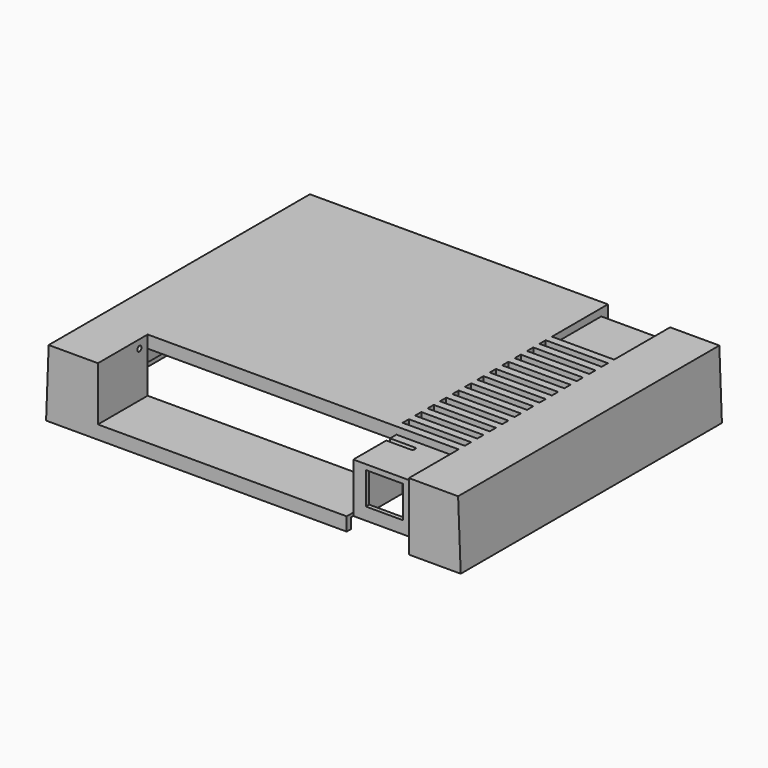
from build123d import *

# Parameters (mm, degrees)
F0_W      = 80
F0_H      = 63
F0_W_2    = 78
F0_H_2    = 61
F1_DEPTH  = 13
F3_DEPTH  = 63
F4_T      = -2.4
F5_DEPTH  = 2
F6_DEPTH  = 1.6
F7_W      = 7.2
F7_H      = 6.2
F8_DEPTH  = 2
F9_W      = 12
F9_H      = 12
F9_H_2    = 10.4
F10_DEPTH = 1.4
F9_H_3    = 1.5
F11_DEPTH = 3
F12_W     = 12
F12_H     = 11.6
F13_DEPTH = 1.6
F14_W     = 7.2
F14_H     = 4.8
F15_DEPTH = 3
F2_W      = 48
F2_H      = 10.4
F16_DEPTH = 12
F17_W     = 1.2
F17_H     = 9.6
F18_DEPTH = 8.6
F19_W     = 9.6
F19_H     = 0.6
F20_DEPTH = 48
F21_D     = 1
F21_DEPTH = 5
F21_TIP   = 0.3004303095
F23_D     = 1
F23_DEPTH = 5
F23_TIP   = 0.3004303095


with BuildPart() as f1:
    # F0 (on Top) → F1 (new body)
    with BuildSketch(Plane.XY):
        Rectangle(F0_W, F0_H)
        Rectangle(F0_W_2, F0_H_2, mode=Mode.SUBTRACT)
        Rectangle(F0_W, F0_H)
        Rectangle(F0_W_2, F0_H_2, mode=Mode.SUBTRACT)
        Rectangle(F0_W_2, F0_H_2)
    extrude(amount=F1_DEPTH)

    # F2 (on face) → F3 (cut)
    with BuildSketch(Plane.XZ.offset(31.5)):
        Polygon((-39.5, 13), (-40, 13), (-40, 0), align=None)
        Polygon((39.5, 13), (40, 0), (40, 13), align=None)
    extrude(amount=-F3_DEPTH, mode=Mode.SUBTRACT)

    # F4
    f4_openings = [f1.faces().sort_by_distance(p)[0] for p in [
        (0, 0, 0),
    ]]
    offset(amount=F4_T, openings=f4_openings)

    # F0 (on Top) → F5 (cut)
    with BuildSketch(Plane.XY):
        Rectangle(F0_W_2, F0_H_2)
    extrude(amount=F5_DEPTH, mode=Mode.SUBTRACT)

    # F2 (on face) → F6 (cut)
    with BuildSketch(Plane.XZ.offset(31.5)):
        Polygon((18, 2.6), (18, 0), (30, 0), (30, 13), (18, 13), align=None)
    extrude(amount=-F6_DEPTH, mode=Mode.SUBTRACT)

    # F7 (on face) → F8 (cut)
    with BuildSketch(Plane.XZ.offset(29.9)):
        with Locations((24, 7.5)):
            Rectangle(F7_W, F7_H)
    extrude(amount=-F8_DEPTH, mode=Mode.SUBTRACT)

    # F9 (on face) → F10 (cut)
    with BuildSketch(Plane.XY.offset(13)):
        with Locations((24, 25.5)):
            Rectangle(F9_W, F9_H)
        with Locations((24, -24.7)):
            Rectangle(F9_W, F9_H_2)
    extrude(amount=-F10_DEPTH, mode=Mode.SUBTRACT)

    # F9 (on face) → F11 (cut)
    with BuildSketch(Plane.XY.offset(13)):
        with Locations((24, -17.25)):
            Rectangle(F9_W, F9_H_3)
        with Locations((24, -14.25)):
            Rectangle(F9_W, F9_H_3)
        with Locations((24, -11.25)):
            Rectangle(F9_W, F9_H_3)
        with Locations((24, -8.25)):
            Rectangle(F9_W, F9_H_3)
        with Locations((24, -5.25)):
            Rectangle(F9_W, F9_H_3)
        with Locations((24, 0.75)):
            Rectangle(F9_W, F9_H_3)
        with Locations((24, -2.25)):
            Rectangle(F9_W, F9_H_3)
        with Locations((24, 3.75)):
            Rectangle(F9_W, F9_H_3)
        with Locations((24, 6.75)):
            Rectangle(F9_W, F9_H_3)
        with Locations((24, 9.75)):
            Rectangle(F9_W, F9_H_3)
        with Locations((24, 12.75)):
            Rectangle(F9_W, F9_H_3)
        with Locations((24, 15.75)):
            Rectangle(F9_W, F9_H_3)
        with Locations((24, 18.75)):
            Rectangle(F9_W, F9_H_3)
    extrude(amount=-F11_DEPTH, mode=Mode.SUBTRACT)

    # F12 (on face) → F13 (cut)
    with BuildSketch(Plane(origin=(0, 31.5, 0), x_dir=(-1, 0, 0), z_dir=(0, 1, 0))):
        with Locations((-24, 5.8)):
            Rectangle(F12_W, F12_H)
    extrude(amount=-F13_DEPTH, mode=Mode.SUBTRACT)

    # F14 (on face) → F15 (cut)
    with BuildSketch(Plane(origin=(0, 29.9, 0), x_dir=(-1, 0, 0), z_dir=(0, 1, 0))):
        with Locations((-24, 6.8)):
            Rectangle(F14_W, F14_H)
    extrude(amount=-F15_DEPTH, mode=Mode.SUBTRACT)

    # F2 (on face) → F16 (cut)
    with BuildSketch(Plane.XZ.offset(31.5)):
        with Locations((-6, 7.8)):
            Rectangle(F2_W, F2_H)
    extrude(amount=-F16_DEPTH, mode=Mode.SUBTRACT)

    # F17 (on face) → F18 (join)
    with BuildSketch(Plane(origin=(0, 0, 10.6), x_dir=(1, 0, 0), z_dir=(0, 0, -1))):
        with Locations((18.6, 24.3)):
            Rectangle(F17_W, F17_H)
        with Locations((-30.6, 24.3)):
            Rectangle(F17_W, F17_H)
    extrude(amount=F18_DEPTH)

    # F19 (on face) → F20 (join)
    with BuildSketch(Plane.YZ.offset(-30)):
        with Locations((-24.3, 2.3)):
            Rectangle(F19_W, F19_H)
    extrude(amount=F20_DEPTH)

    # F21 (one way)
    with BuildSketch(Plane.YZ.offset(-30)):
        with Locations((-21.5, 11.4)):
            Circle(F21_D / 2)
    extrude(amount=-F21_DEPTH, mode=Mode.SUBTRACT)
    with Locations(Plane.YZ.offset(-30)):
        with Locations((-21.5, 11.4)):
            with Locations((0, 0, -(F21_DEPTH + F21_TIP / 2))):  # 118° drill point
                Cone(0, F21_D / 2, F21_TIP, mode=Mode.SUBTRACT)

    # F23 (one way)
    with BuildSketch(Plane(origin=(18, 0, 0), x_dir=(0, -1, 0), z_dir=(-1, 0, 0))):
        with Locations((21.5, 11.4)):
            Circle(F23_D / 2)
    extrude(amount=-F23_DEPTH, mode=Mode.SUBTRACT)
    with Locations(Plane(origin=(18, 0, 0), x_dir=(0, -1, 0), z_dir=(-1, 0, 0))):
        with Locations((21.5, 11.4)):
            with Locations((0, 0, -(F23_DEPTH + F23_TIP / 2))):  # 118° drill point
                Cone(0, F23_D / 2, F23_TIP, mode=Mode.SUBTRACT)


solid = f1.part
